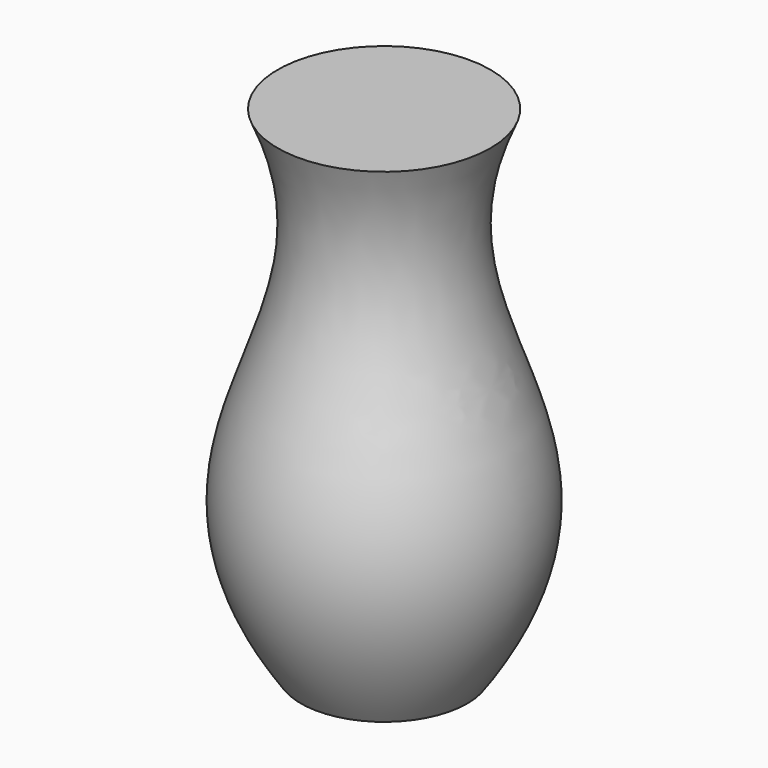
from build123d import *


with BuildPart() as f1:
    # F0 (on Front) → F1 (revolve)
    with BuildSketch(Plane.XZ):
        with BuildLine():
            Line((0, 280), (0, 0))
            Line((0, 0), (47, 0))
            add(Edge.make_bspline(
                [(60, 280), (8.348012, 165.214669), (133.036465, 122.872807), (47, 0)],
                knots=[0, 0, 0, 0, 280.301623, 280.301623, 280.301623, 280.301623], degree=3))
            Line((60, 280), (0, 280))
        make_face()
    revolve(axis=Axis((0, 0, 140), (0, 0, 1)))


solid = f1.part
